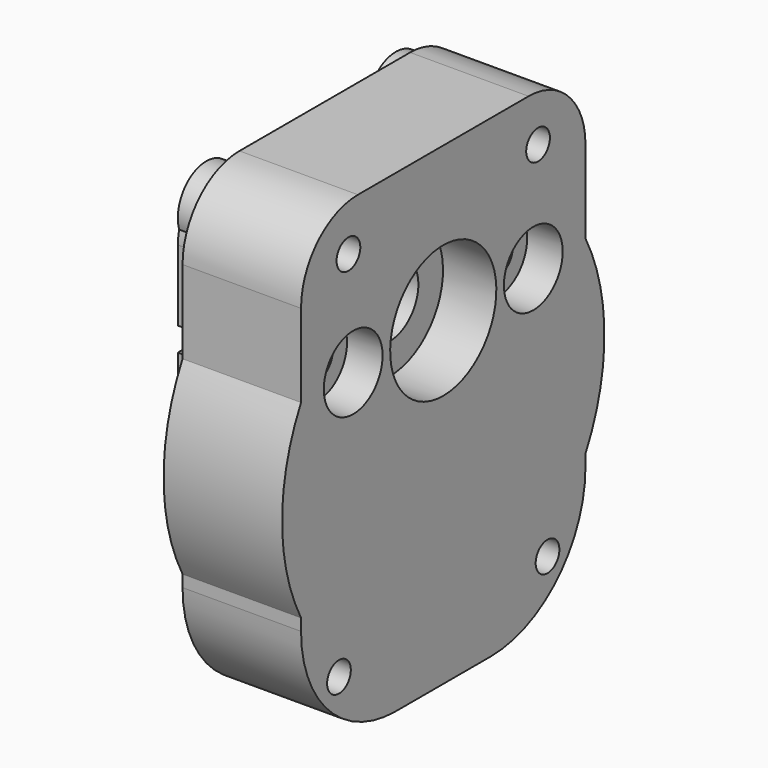
from build123d import *

# Parameters (mm, degrees)
CYLINDER092_R           = 1.6
CYLINDER092_DEPTH       = 10
CYLINDER092_PITCH_ANGLE = 90
CYLINDER094_R           = 3.1
CYLINDER094_DEPTH       = 3
CYLINDER094_PITCH_ANGLE = 90
CYLINDER093_R           = 3.1
CYLINDER093_DEPTH       = 3
CYLINDER093_PITCH_ANGLE = 90
CYLINDER091_R           = 1.6
CYLINDER091_DEPTH       = 10
CYLINDER091_PITCH_ANGLE = 90
CYLINDER087_R           = 3.2
CYLINDER087_DEPTH       = 2
CYLINDER087_PITCH_ANGLE = 90
CYLINDER088_R           = 3.2
CYLINDER088_DEPTH       = 2
CYLINDER088_PITCH_ANGLE = 90
CYLINDER090_R           = 3
CYLINDER090_DEPTH       = 10
CYLINDER090_PITCH_ANGLE = 90
CYLINDER082_R           = 1.25
CYLINDER082_DEPTH       = 12
CYLINDER082_PITCH_ANGLE = 90
CYLINDER080_R           = 1.25
CYLINDER080_DEPTH       = 12
CYLINDER080_PITCH_ANGLE = 90
CYLINDER081_R           = 3
CYLINDER081_DEPTH       = 12
CYLINDER081_PITCH_ANGLE = 90
BOX026_W                = 2
BOX026_H                = 2
BOX026_DEPTH            = 2
BOX025_W                = 2
BOX025_H                = 2
BOX025_DEPTH            = 2
BOX024_W                = 7
BOX024_H                = 22
BOX024_DEPTH            = 27
FILLET033_R             = 6
FILLET034_R             = 2
BOX023_W                = 7
BOX023_H                = 26
BOX023_DEPTH            = 31
FILLET032_R             = 4
FILLET031_R             = 8
CYLINDER078_R           = 3
CYLINDER078_DEPTH       = 5
CYLINDER078_PITCH_ANGLE = 90
BOX022_W                = 5
BOX022_H                = 26
BOX022_DEPTH            = 1
CYLINDER077_R           = 6
CYLINDER077_DEPTH       = 5
CYLINDER077_PITCH_ANGLE = 90
BOX021_W                = 18
BOX021_H                = 26
BOX021_DEPTH            = 31
FILLET030_R             = 4
FILLET029_R             = 8
BOX017_W                = 23
BOX017_H                = 80
BOX017_DEPTH            = 41
CYLINDER074_R           = 1.25
CYLINDER074_DEPTH       = 10
CYLINDER074_ROLL_ANGLE  = 90
CYLINDER073_R           = 1.25
CYLINDER073_DEPTH       = 10
CYLINDER073_ROLL_ANGLE  = 90
CYLINDER070_R           = 4
CYLINDER070_DEPTH       = 23
CYLINDER070_ROLL_ANGLE  = 90
FILLET024_R             = 2
CYLINDER071_R           = 4
CYLINDER071_DEPTH       = 23
CYLINDER071_ROLL_ANGLE  = 90
FILLET025_R             = 2
CYLINDER072_R           = 4
CYLINDER072_DEPTH       = 23
CYLINDER072_ROLL_ANGLE  = 90
FILLET026_R             = 2
CYLINDER069_R           = 4
CYLINDER069_DEPTH       = 23
CYLINDER069_ROLL_ANGLE  = 90
FILLET023_R             = 2
CYLINDER067_R           = 5.6
CYLINDER067_DEPTH       = 4.5
CYLINDER067_PITCH_ANGLE = 90
CYLINDER068_R           = 5.6
CYLINDER068_DEPTH       = 4.5
CYLINDER068_PITCH_ANGLE = 90
CYLINDER066_R           = 3
CYLINDER066_DEPTH       = 33
CYLINDER066_PITCH_ANGLE = 90
CYLINDER063_R           = 1.25
CYLINDER063_DEPTH       = 15
CYLINDER063_PITCH_ANGLE = 90
CYLINDER064_R           = 1.25
CYLINDER064_DEPTH       = 15
CYLINDER064_PITCH_ANGLE = 90
CYLINDER065_R           = 1.25
CYLINDER065_DEPTH       = 15
CYLINDER065_PITCH_ANGLE = 90
CYLINDER062_R           = 1.25
CYLINDER062_DEPTH       = 15
CYLINDER062_PITCH_ANGLE = 90
CYLINDER061_R           = 17
CYLINDER061_DEPTH       = 10
CYLINDER061_PITCH_ANGLE = 90
BOX016_W                = 22
BOX016_H                = 36
BOX016_DEPTH            = 40
CYLINDER060_R           = 17
CYLINDER060_DEPTH       = 17
CYLINDER060_PITCH_ANGLE = 90
BOX015_W                = 23
BOX015_H                = 30
BOX015_DEPTH            = 35
FILLET022_R             = 10
FILLET021_R             = 6
BOX014_W                = 32
BOX014_H                = 30
BOX014_DEPTH            = 40
FILLET020_R             = 10
FILLET019_R             = 6
BOX013_W                = 10
BOX013_H                = 50
BOX013_DEPTH            = 3
BOX012_W                = 10
BOX012_H                = 80
BOX012_DEPTH            = 17
FILLET018_R             = 3
CHAMFER002_SIZE         = 2.99
CYLINDER079_R           = 3
CYLINDER079_DEPTH       = 12
CYLINDER079_PITCH_ANGLE = 90
CYLINDER089_R           = 3
CYLINDER089_DEPTH       = 10
CYLINDER089_PITCH_ANGLE = 90


with BuildPart() as cylinder092:
    # Cylinder092 → Cylinder092 (new body)
    with BuildSketch(Plane.XY):
        Circle(CYLINDER092_R)
    extrude(amount=CYLINDER092_DEPTH)


with BuildPart() as cylinder092_1:
    # Cylinder092 pitch: moved
    add(cylinder092.part.rotate(Axis((0, 0, 0), (0, 1, 0)), CYLINDER092_PITCH_ANGLE))


with BuildPart() as cylinder092_2:
    # Cylinder092 placement: moved
    add(cylinder092_1.part.moved(Location((23, 24.5, 27))))


with BuildPart() as cylinder094:
    # Cylinder094 → Cylinder094 (new body)
    with BuildSketch(Plane.XY):
        Circle(CYLINDER094_R)
    extrude(amount=CYLINDER094_DEPTH)


with BuildPart() as cylinder094_1:
    # Cylinder094 pitch: moved
    add(cylinder094.part.rotate(Axis((0, 0, 0), (0, 1, 0)), CYLINDER094_PITCH_ANGLE))


with BuildPart() as cylinder094_2:
    # Cylinder094 placement: moved
    add(cylinder094_1.part.moved(Location((30, 24.5, 27))))


with BuildPart() as cylinder093:
    # Cylinder093 → Cylinder093 (new body)
    with BuildSketch(Plane.XY):
        Circle(CYLINDER093_R)
    extrude(amount=CYLINDER093_DEPTH)


with BuildPart() as cylinder093_1:
    # Cylinder093 pitch: moved
    add(cylinder093.part.rotate(Axis((0, 0, 0), (0, 1, 0)), CYLINDER093_PITCH_ANGLE))


with BuildPart() as cylinder093_2:
    # Cylinder093 placement: moved
    add(cylinder093_1.part.moved(Location((30, 5.5, 27))))


with BuildPart() as fusion051:
    # Cylinder091 → Cylinder091 (new body)
    with BuildSketch(Plane.XY):
        Circle(CYLINDER091_R)
    extrude(amount=CYLINDER091_DEPTH)


with BuildPart() as fusion051_1:
    # Cylinder091 pitch: moved
    add(fusion051.part.rotate(Axis((0, 0, 0), (0, 1, 0)), CYLINDER091_PITCH_ANGLE))


with BuildPart() as fusion051_2:
    # Cylinder091 placement: moved
    add(fusion051_1.part.moved(Location((23, 5.5, 27))))

    # Fusion051: union Cylinder092, Cylinder094, Cylinder093
    add(cylinder092_2.part)
    add(cylinder094_2.part)
    add(cylinder093_2.part)


with BuildPart() as cylinder087:
    # Cylinder087 → Cylinder087 (new body)
    with BuildSketch(Plane.XY):
        Circle(CYLINDER087_R)
    extrude(amount=CYLINDER087_DEPTH)


with BuildPart() as cylinder087_1:
    # Cylinder087 pitch: moved
    add(cylinder087.part.rotate(Axis((0, 0, 0), (0, 1, 0)), CYLINDER087_PITCH_ANGLE))


with BuildPart() as cylinder087_2:
    # Cylinder087 placement: moved
    add(cylinder087_1.part.moved(Location((21, 24.5, 27))))


with BuildPart() as fusion050:
    # Cylinder088 → Cylinder088 (new body)
    with BuildSketch(Plane.XY):
        Circle(CYLINDER088_R)
    extrude(amount=CYLINDER088_DEPTH)


with BuildPart() as fusion050_1:
    # Cylinder088 pitch: moved
    add(fusion050.part.rotate(Axis((0, 0, 0), (0, 1, 0)), CYLINDER088_PITCH_ANGLE))


with BuildPart() as fusion050_2:
    # Cylinder088 placement: moved
    add(fusion050_1.part.moved(Location((21, 5.5, 27))))

    # Fusion050: union Cylinder087
    add(cylinder087_2.part)


with BuildPart() as cylinder090:
    # Cylinder090 → Cylinder090 (new body)
    with BuildSketch(Plane.XY):
        Circle(CYLINDER090_R)
    extrude(amount=CYLINDER090_DEPTH)


with BuildPart() as cylinder090_1:
    # Cylinder090 pitch: moved
    add(cylinder090.part.rotate(Axis((0, 0, 0), (0, 1, 0)), CYLINDER090_PITCH_ANGLE))


with BuildPart() as cylinder090_2:
    # Cylinder090 placement: moved
    add(cylinder090_1.part.moved(Location((23, 5.5, 27))))


with BuildPart() as cylinder082:
    # Cylinder082 → Cylinder082 (new body)
    with BuildSketch(Plane.XY):
        Circle(CYLINDER082_R)
    extrude(amount=CYLINDER082_DEPTH)


with BuildPart() as cylinder082_1:
    # Cylinder082 pitch: moved
    add(cylinder082.part.rotate(Axis((0, 0, 0), (0, 1, 0)), CYLINDER082_PITCH_ANGLE))


with BuildPart() as cylinder082_2:
    # Cylinder082 placement: moved
    add(cylinder082_1.part.moved(Location((21, 25, 36))))


with BuildPart() as fusion046:
    # Cylinder080 → Cylinder080 (new body)
    with BuildSketch(Plane.XY):
        Circle(CYLINDER080_R)
    extrude(amount=CYLINDER080_DEPTH)


with BuildPart() as fusion046_1:
    # Cylinder080 pitch: moved
    add(fusion046.part.rotate(Axis((0, 0, 0), (0, 1, 0)), CYLINDER080_PITCH_ANGLE))


with BuildPart() as fusion046_2:
    # Cylinder080 placement: moved
    add(fusion046_1.part.moved(Location((21, 5, 36))))

    # Fusion046: union Cylinder082
    add(cylinder082_2.part)


with BuildPart() as cylinder081:
    # Cylinder081 → Cylinder081 (new body)
    with BuildSketch(Plane.XY):
        Circle(CYLINDER081_R)
    extrude(amount=CYLINDER081_DEPTH)


with BuildPart() as cylinder081_1:
    # Cylinder081 pitch: moved
    add(cylinder081.part.rotate(Axis((0, 0, 0), (0, 1, 0)), CYLINDER081_PITCH_ANGLE))


with BuildPart() as cylinder081_2:
    # Cylinder081 placement: moved
    add(cylinder081_1.part.moved(Location((21, 25, 36))))


with BuildPart() as cube010:
    # Box026 → Box026 (new body)
    with BuildSketch(Plane(origin=(21, 26, 26), x_dir=(1, 0, 0), z_dir=(0, 0, 1))):
        with Locations((1, 1)):
            Rectangle(BOX026_W, BOX026_H)
    extrude(amount=BOX026_DEPTH)


with BuildPart() as fusion043:
    # Box025 → Box025 (new body)
    with BuildSketch(Plane(origin=(21, 2, 26), x_dir=(1, 0, 0), z_dir=(0, 0, 1))):
        with Locations((1, 1)):
            Rectangle(BOX025_W, BOX025_H)
    extrude(amount=BOX025_DEPTH)

    # Fusion043: union Cube010
    add(cube010.part)


with BuildPart() as fillet034:
    # Box024 → Box024 (new body)
    with BuildSketch(Plane(origin=(10, 4, 9), x_dir=(1, 0, 0), z_dir=(0, 0, 1))):
        with Locations((3.5, 11)):
            Rectangle(BOX024_W, BOX024_H)
    extrude(amount=BOX024_DEPTH)

    # Fillet033
    fillet033_edges = [fillet034.edges().sort_by_distance(p)[0] for p in [
        (13.5, 4, 9),
        (13.5, 26, 9),
    ]]
    fillet(fillet033_edges, radius=FILLET033_R)


with BuildPart() as fillet034_1:
    # Fillet033 placement: moved
    add(fillet034.part.moved(Location((-2, 0, 0))))

    # Fillet034
    fillet034_edges = [fillet034_1.edges().sort_by_distance(p)[0] for p in [
        (11.5, 4, 36),
        (11.5, 26, 36),
    ]]
    fillet(fillet034_edges, radius=FILLET034_R)


with BuildPart() as fillet034_2:
    # Fillet034 placement: moved
    add(fillet034_1.part.moved(Location((2, 0, 0))))


with BuildPart() as cut038:
    # Box023 → Box023 (new body)
    with BuildSketch(Plane(origin=(5, 2, 7), x_dir=(1, 0, 0), z_dir=(0, 0, 1))):
        with Locations((3.5, 13)):
            Rectangle(BOX023_W, BOX023_H)
    extrude(amount=BOX023_DEPTH)

    # Fillet032
    fillet032_edges = [cut038.edges().sort_by_distance(p)[0] for p in [
        (8.5, 2, 38),
        (8.5, 28, 38),
    ]]
    fillet(fillet032_edges, radius=FILLET032_R)

    # Fillet031
    fillet031_edges = [cut038.edges().sort_by_distance(p)[0] for p in [
        (8.5, 2, 7),
        (8.5, 28, 7),
    ]]
    fillet(fillet031_edges, radius=FILLET031_R)


with BuildPart() as cut038_1:
    # Fillet031 placement: moved
    add(cut038.part.moved(Location((5, 0, 0))))

    # Cut037: cut Fillet034
    add(fillet034_2.part, mode=Mode.SUBTRACT)


with BuildPart() as cut038_2:
    # Cut037 placement: moved
    add(cut038_1.part.moved(Location((11, 0, 0))))

    # Cut038: cut Fusion043
    add(fusion043.part, mode=Mode.SUBTRACT)


with BuildPart() as cylinder078:
    # Cylinder078 → Cylinder078 (new body)
    with BuildSketch(Plane.XY):
        Circle(CYLINDER078_R)
    extrude(amount=CYLINDER078_DEPTH)


with BuildPart() as cylinder078_1:
    # Cylinder078 pitch: moved
    add(cylinder078.part.rotate(Axis((0, 0, 0), (0, 1, 0)), CYLINDER078_PITCH_ANGLE))


with BuildPart() as cylinder078_2:
    # Cylinder078 placement: moved
    add(cylinder078_1.part.moved(Location((23, 15, 27))))


with BuildPart() as cube008:
    # Box022 → Box022 (new body)
    with BuildSketch(Plane(origin=(23, 2, 26.5), x_dir=(1, 0, 0), z_dir=(0, 0, 1))):
        with Locations((2.5, 13)):
            Rectangle(BOX022_W, BOX022_H)
    extrude(amount=BOX022_DEPTH)


with BuildPart() as cut036:
    # Cylinder077 → Cylinder077 (new body)
    with BuildSketch(Plane.XY):
        Circle(CYLINDER077_R)
    extrude(amount=CYLINDER077_DEPTH)


with BuildPart() as cut036_1:
    # Cylinder077 pitch: moved
    add(cut036.part.rotate(Axis((0, 0, 0), (0, 1, 0)), CYLINDER077_PITCH_ANGLE))


with BuildPart() as cut036_2:
    # Cylinder077 placement: moved
    add(cut036_1.part.moved(Location((23, 15, 27))))

    # Fusion041: union Cube008
    add(cube008.part)

    # Cut036: cut Cylinder078
    add(cylinder078_2.part, mode=Mode.SUBTRACT)


with BuildPart() as fillet029:
    # Box021 → Box021 (new body)
    with BuildSketch(Plane(origin=(5, 2, 7), x_dir=(1, 0, 0), z_dir=(0, 0, 1))):
        with Locations((9, 13)):
            Rectangle(BOX021_W, BOX021_H)
    extrude(amount=BOX021_DEPTH)

    # Fillet030
    fillet030_edges = [fillet029.edges().sort_by_distance(p)[0] for p in [
        (14, 2, 38),
        (14, 28, 38),
    ]]
    fillet(fillet030_edges, radius=FILLET030_R)

    # Fillet029
    fillet029_edges = [fillet029.edges().sort_by_distance(p)[0] for p in [
        (14, 2, 7),
        (14, 28, 7),
    ]]
    fillet(fillet029_edges, radius=FILLET029_R)


with BuildPart() as fillet029_1:
    # Fillet029 placement: moved
    add(fillet029.part.moved(Location((5, 0, 0))))


with BuildPart() as box017:
    # Box017 → Box017 (new body)
    with BuildSketch(Plane(origin=(0, -25, 0), x_dir=(1, 0, 0), z_dir=(0, 0, 1))):
        with Locations((11.5, 40)):
            Rectangle(BOX017_W, BOX017_H)
    extrude(amount=BOX017_DEPTH)


with BuildPart() as cylinder074:
    # Cylinder074 → Cylinder074 (new body)
    with BuildSketch(Plane.XY):
        Circle(CYLINDER074_R)
    extrude(amount=CYLINDER074_DEPTH)


with BuildPart() as cylinder074_1:
    # Cylinder074 roll: moved
    add(cylinder074.part.rotate(Axis((0, 0, 0), (1, 0, 0)), CYLINDER074_ROLL_ANGLE))


with BuildPart() as cylinder074_2:
    # Cylinder074 placement: moved
    add(cylinder074_1.part.moved(Location((5, 55, 32.5))))


with BuildPart() as fusion038:
    # Cylinder073 → Cylinder073 (new body)
    with BuildSketch(Plane.XY):
        Circle(CYLINDER073_R)
    extrude(amount=CYLINDER073_DEPTH)


with BuildPart() as fusion038_1:
    # Cylinder073 roll: moved
    add(fusion038.part.rotate(Axis((0, 0, 0), (1, 0, 0)), CYLINDER073_ROLL_ANGLE))


with BuildPart() as fusion038_2:
    # Cylinder073 placement: moved
    add(fusion038_1.part.moved(Location((5, -15, 32.5))))

    # Fusion038: union Cylinder074
    add(cylinder074_2.part)


with BuildPart() as fillet024:
    # Cylinder070 → Cylinder070 (new body)
    with BuildSketch(Plane.XY):
        Circle(CYLINDER070_R)
    extrude(amount=CYLINDER070_DEPTH)


with BuildPart() as fillet024_1:
    # Cylinder070 roll: moved
    add(fillet024.part.rotate(Axis((0, 0, 0), (1, 0, 0)), CYLINDER070_ROLL_ANGLE))


with BuildPart() as fillet024_2:
    # Cylinder070 placement: moved
    add(fillet024_1.part.moved(Location((-3, 0, 31))))

    # Fillet024
    fillet024_edges = [fillet024_2.edges().sort_by_distance(p)[0] for p in [
        (-7, -23, 31),
        (-7, 0, 31),
    ]]
    fillet(fillet024_edges, radius=FILLET024_R)


with BuildPart() as fillet024_3:
    # Fillet024 placement: moved
    add(fillet024_2.part.moved(Location((16, 0, 0))))


with BuildPart() as fillet025:
    # Cylinder071 → Cylinder071 (new body)
    with BuildSketch(Plane.XY):
        Circle(CYLINDER071_R)
    extrude(amount=CYLINDER071_DEPTH)


with BuildPart() as fillet025_1:
    # Cylinder071 roll: moved
    add(fillet025.part.rotate(Axis((0, 0, 0), (1, 0, 0)), CYLINDER071_ROLL_ANGLE))


with BuildPart() as fillet025_2:
    # Cylinder071 placement: moved
    add(fillet025_1.part.moved(Location((-3, 0, 31))))

    # Fillet025
    fillet025_edges = [fillet025_2.edges().sort_by_distance(p)[0] for p in [
        (-7, -23, 31),
        (-7, 0, 31),
    ]]
    fillet(fillet025_edges, radius=FILLET025_R)


with BuildPart() as fillet025_3:
    # Fillet025 placement: moved
    add(fillet025_2.part.moved(Location((0, 53, 0))))


with BuildPart() as fillet026:
    # Cylinder072 → Cylinder072 (new body)
    with BuildSketch(Plane.XY):
        Circle(CYLINDER072_R)
    extrude(amount=CYLINDER072_DEPTH)


with BuildPart() as fillet026_1:
    # Cylinder072 roll: moved
    add(fillet026.part.rotate(Axis((0, 0, 0), (1, 0, 0)), CYLINDER072_ROLL_ANGLE))


with BuildPart() as fillet026_2:
    # Cylinder072 placement: moved
    add(fillet026_1.part.moved(Location((-3, 0, 31))))

    # Fillet026
    fillet026_edges = [fillet026_2.edges().sort_by_distance(p)[0] for p in [
        (-7, -23, 31),
        (-7, 0, 31),
    ]]
    fillet(fillet026_edges, radius=FILLET026_R)


with BuildPart() as fillet026_3:
    # Fillet026 placement: moved
    add(fillet026_2.part.moved(Location((16, 53, 0))))


with BuildPart() as fusion037:
    # Cylinder069 → Cylinder069 (new body)
    with BuildSketch(Plane.XY):
        Circle(CYLINDER069_R)
    extrude(amount=CYLINDER069_DEPTH)


with BuildPart() as fusion037_1:
    # Cylinder069 roll: moved
    add(fusion037.part.rotate(Axis((0, 0, 0), (1, 0, 0)), CYLINDER069_ROLL_ANGLE))


with BuildPart() as fusion037_2:
    # Cylinder069 placement: moved
    add(fusion037_1.part.moved(Location((-3, 0, 31))))

    # Fillet023
    fillet023_edges = [fusion037_2.edges().sort_by_distance(p)[0] for p in [
        (-7, -23, 31),
        (-7, 0, 31),
    ]]
    fillet(fillet023_edges, radius=FILLET023_R)

    # Fusion037: union Fillet024, Fillet025, Fillet026
    add(fillet024_3.part)
    add(fillet025_3.part)
    add(fillet026_3.part)


with BuildPart() as cylinder067:
    # Cylinder067 → Cylinder067 (new body)
    with BuildSketch(Plane.XY):
        Circle(CYLINDER067_R)
    extrude(amount=CYLINDER067_DEPTH)


with BuildPart() as cylinder067_1:
    # Cylinder067 pitch: moved
    add(cylinder067.part.rotate(Axis((0, 0, 0), (0, 1, 0)), CYLINDER067_PITCH_ANGLE))


with BuildPart() as cylinder067_2:
    # Cylinder067 placement: moved
    add(cylinder067_1.part.moved(Location((0, 15, 27))))


with BuildPart() as cylinder068:
    # Cylinder068 → Cylinder068 (new body)
    with BuildSketch(Plane.XY):
        Circle(CYLINDER068_R)
    extrude(amount=CYLINDER068_DEPTH)


with BuildPart() as cylinder068_1:
    # Cylinder068 pitch: moved
    add(cylinder068.part.rotate(Axis((0, 0, 0), (0, 1, 0)), CYLINDER068_PITCH_ANGLE))


with BuildPart() as cylinder068_2:
    # Cylinder068 placement: moved
    add(cylinder068_1.part.moved(Location((28.5, 15, 27))))


with BuildPart() as fusion036:
    # Cylinder066 → Cylinder066 (new body)
    with BuildSketch(Plane.XY):
        Circle(CYLINDER066_R)
    extrude(amount=CYLINDER066_DEPTH)


with BuildPart() as fusion036_1:
    # Cylinder066 pitch: moved
    add(fusion036.part.rotate(Axis((0, 0, 0), (0, 1, 0)), CYLINDER066_PITCH_ANGLE))


with BuildPart() as fusion036_2:
    # Cylinder066 placement: moved
    add(fusion036_1.part.moved(Location((0, 15, 27))))

    # Fusion036: union Cylinder067, Cylinder068
    add(cylinder067_2.part)
    add(cylinder068_2.part)


with BuildPart() as cylinder063:
    # Cylinder063 → Cylinder063 (new body)
    with BuildSketch(Plane.XY):
        Circle(CYLINDER063_R)
    extrude(amount=CYLINDER063_DEPTH)


with BuildPart() as cylinder063_1:
    # Cylinder063 pitch: moved
    add(cylinder063.part.rotate(Axis((0, 0, 0), (0, 1, 0)), CYLINDER063_PITCH_ANGLE))


with BuildPart() as cylinder063_2:
    # Cylinder063 placement: moved
    add(cylinder063_1.part.moved(Location((30, 4, 5))))


with BuildPart() as cylinder064:
    # Cylinder064 → Cylinder064 (new body)
    with BuildSketch(Plane.XY):
        Circle(CYLINDER064_R)
    extrude(amount=CYLINDER064_DEPTH)


with BuildPart() as cylinder064_1:
    # Cylinder064 pitch: moved
    add(cylinder064.part.rotate(Axis((0, 0, 0), (0, 1, 0)), CYLINDER064_PITCH_ANGLE))


with BuildPart() as cylinder064_2:
    # Cylinder064 placement: moved
    add(cylinder064_1.part.moved(Location((30, 26, 5))))


with BuildPart() as cylinder065:
    # Cylinder065 → Cylinder065 (new body)
    with BuildSketch(Plane.XY):
        Circle(CYLINDER065_R)
    extrude(amount=CYLINDER065_DEPTH)


with BuildPart() as cylinder065_1:
    # Cylinder065 pitch: moved
    add(cylinder065.part.rotate(Axis((0, 0, 0), (0, 1, 0)), CYLINDER065_PITCH_ANGLE))


with BuildPart() as cylinder065_2:
    # Cylinder065 placement: moved
    add(cylinder065_1.part.moved(Location((30, 25, 36))))


with BuildPart() as fusion035:
    # Cylinder062 → Cylinder062 (new body)
    with BuildSketch(Plane.XY):
        Circle(CYLINDER062_R)
    extrude(amount=CYLINDER062_DEPTH)


with BuildPart() as fusion035_1:
    # Cylinder062 pitch: moved
    add(fusion035.part.rotate(Axis((0, 0, 0), (0, 1, 0)), CYLINDER062_PITCH_ANGLE))


with BuildPart() as fusion035_2:
    # Cylinder062 placement: moved
    add(fusion035_1.part.moved(Location((30, 5, 36))))

    # Fusion035: union Cylinder063, Cylinder064, Cylinder065
    add(cylinder063_2.part)
    add(cylinder064_2.part)
    add(cylinder065_2.part)


with BuildPart() as fusion035_3:
    # Fusion035 placement: moved
    add(fusion035_2.part.moved(Location((-12, 0, 0))))


with BuildPart() as cylinder061:
    # Cylinder061 → Cylinder061 (new body)
    with BuildSketch(Plane.XY):
        Circle(CYLINDER061_R)
    extrude(amount=CYLINDER061_DEPTH)


with BuildPart() as cylinder061_1:
    # Cylinder061 pitch: moved
    add(cylinder061.part.rotate(Axis((0, 0, 0), (0, 1, 0)), CYLINDER061_PITCH_ANGLE))


with BuildPart() as cylinder061_2:
    # Cylinder061 placement: moved
    add(cylinder061_1.part.moved(Location((23, 15, 19))))


with BuildPart() as box016:
    # Box016 → Box016 (new body)
    with BuildSketch(Plane(origin=(33, -3, 0), x_dir=(1, 0, 0), z_dir=(0, 0, 1))):
        with Locations((11, 18)):
            Rectangle(BOX016_W, BOX016_H)
    extrude(amount=BOX016_DEPTH)


with BuildPart() as cylinder060:
    # Cylinder060 → Cylinder060 (new body)
    with BuildSketch(Plane.XY):
        Circle(CYLINDER060_R)
    extrude(amount=CYLINDER060_DEPTH)


with BuildPart() as cylinder060_1:
    # Cylinder060 pitch: moved
    add(cylinder060.part.rotate(Axis((0, 0, 0), (0, 1, 0)), CYLINDER060_PITCH_ANGLE))


with BuildPart() as cylinder060_2:
    # Cylinder060 placement: moved
    add(cylinder060_1.part.moved(Location((33, 15, 18))))


with BuildPart() as fillet021:
    # Box015 → Box015 (new body)
    with BuildSketch(Plane.XY.offset(5)):
        with Locations((11.5, 15)):
            Rectangle(BOX015_W, BOX015_H)
    extrude(amount=BOX015_DEPTH)

    # Fillet022
    fillet022_edges = [fillet021.edges().sort_by_distance(p)[0] for p in [
        (11.5, 0, 5),
        (11.5, 30, 5),
    ]]
    fillet(fillet022_edges, radius=FILLET022_R)

    # Fillet021
    fillet021_edges = [fillet021.edges().sort_by_distance(p)[0] for p in [
        (11.5, 0, 40),
        (11.5, 30, 40),
    ]]
    fillet(fillet021_edges, radius=FILLET021_R)


with BuildPart() as cut028:
    # Box014 → Box014 (new body)
    with BuildSketch(Plane(origin=(23, 0, 0), x_dir=(1, 0, 0), z_dir=(0, 0, 1))):
        with Locations((16, 15)):
            Rectangle(BOX014_W, BOX014_H)
    extrude(amount=BOX014_DEPTH)

    # Fillet020
    fillet020_edges = [cut028.edges().sort_by_distance(p)[0] for p in [
        (39, 0, 0),
        (39, 30, 0),
    ]]
    fillet(fillet020_edges, radius=FILLET020_R)

    # Fillet019
    fillet019_edges = [cut028.edges().sort_by_distance(p)[0] for p in [
        (39, 0, 40),
        (39, 30, 40),
    ]]
    fillet(fillet019_edges, radius=FILLET019_R)

    # Fusion034: union Fillet021
    add(fillet021.part)

    # Fusion033: union Cylinder060
    add(cylinder060_2.part)

    # Cut029: cut Box016
    add(box016.part, mode=Mode.SUBTRACT)

    # Fusion032: union Cylinder061
    add(cylinder061_2.part)

    # Cut028: cut Fusion035
    add(fusion035_3.part, mode=Mode.SUBTRACT)


with BuildPart() as cube006:
    # Box013 → Box013 (new body)
    with BuildSketch(Plane(origin=(0, -10, 38), x_dir=(1, 0, 0), z_dir=(0, 0, 1))):
        with Locations((5, 25)):
            Rectangle(BOX013_W, BOX013_H)
    extrude(amount=BOX013_DEPTH)


with BuildPart() as fusion044:
    # Box012 → Box012 (new body)
    with BuildSketch(Plane(origin=(0, -25, 24), x_dir=(1, 0, 0), z_dir=(0, 0, 1))):
        with Locations((5, 40)):
            Rectangle(BOX012_W, BOX012_H)
    extrude(amount=BOX012_DEPTH)

    # Fillet018
    fillet018_edges = [fusion044.edges().sort_by_distance(p)[0] for p in [
        (5, -25, 24),
        (5, -25, 41),
        (5, 55, 24),
        (5, 55, 41),
    ]]
    fillet(fillet018_edges, radius=FILLET018_R)

    # Cut027: cut Cube006
    add(cube006.part, mode=Mode.SUBTRACT)

    # Chamfer002
    chamfer002_edges = [fusion044.edges().sort_by_distance(p)[0] for p in [
        (5, -10, 41),
        (5, 40, 41),
    ]]
    chamfer(chamfer002_edges, length=CHAMFER002_SIZE)

    # Fusion031: union Cut028
    add(cut028.part)

    # Cut026: cut Fusion036
    add(fusion036_2.part, mode=Mode.SUBTRACT)

    # Cut025: cut Fusion037
    add(fusion037_2.part, mode=Mode.SUBTRACT)

    # Cut024: cut Fusion038
    add(fusion038_2.part, mode=Mode.SUBTRACT)

    # Cut031: cut Box017
    add(box017.part, mode=Mode.SUBTRACT)

    # Cut035: cut Fillet029
    add(fillet029_1.part, mode=Mode.SUBTRACT)

    # Fusion042: union Cut036
    add(cut036_2.part)

    # Fusion044: union Cut038
    add(cut038_2.part)


with BuildPart() as cut039:
    # Cylinder079 → Cylinder079 (new body)
    with BuildSketch(Plane.XY):
        Circle(CYLINDER079_R)
    extrude(amount=CYLINDER079_DEPTH)


with BuildPart() as cut039_1:
    # Cylinder079 pitch: moved
    add(cut039.part.rotate(Axis((0, 0, 0), (0, 1, 0)), CYLINDER079_PITCH_ANGLE))


with BuildPart() as cut039_2:
    # Cylinder079 placement: moved
    add(cut039_1.part.moved(Location((21, 5, 36))))

    # Fusion045: union Cylinder081, Fusion044
    add(cylinder081_2.part)
    add(fusion044.part)

    # Cut039: cut Fusion046
    add(fusion046_2.part, mode=Mode.SUBTRACT)


with BuildPart() as middle_part:
    # Cylinder089 → Cylinder089 (new body)
    with BuildSketch(Plane.XY):
        Circle(CYLINDER089_R)
    extrude(amount=CYLINDER089_DEPTH)


with BuildPart() as middle_part_1:
    # Cylinder089 pitch: moved
    add(middle_part.part.rotate(Axis((0, 0, 0), (0, 1, 0)), CYLINDER089_PITCH_ANGLE))


with BuildPart() as middle_part_2:
    # Cylinder089 placement: moved
    add(middle_part_1.part.moved(Location((23, 24.5, 27))))

    # Fusion049: union Cylinder090, Cut039
    add(cylinder090_2.part)
    add(cut039_2.part)

    # Cut041: cut Fusion050
    add(fusion050_2.part, mode=Mode.SUBTRACT)

    # Cut042: cut Fusion051
    add(fusion051_2.part, mode=Mode.SUBTRACT)


solid = middle_part_2.part
